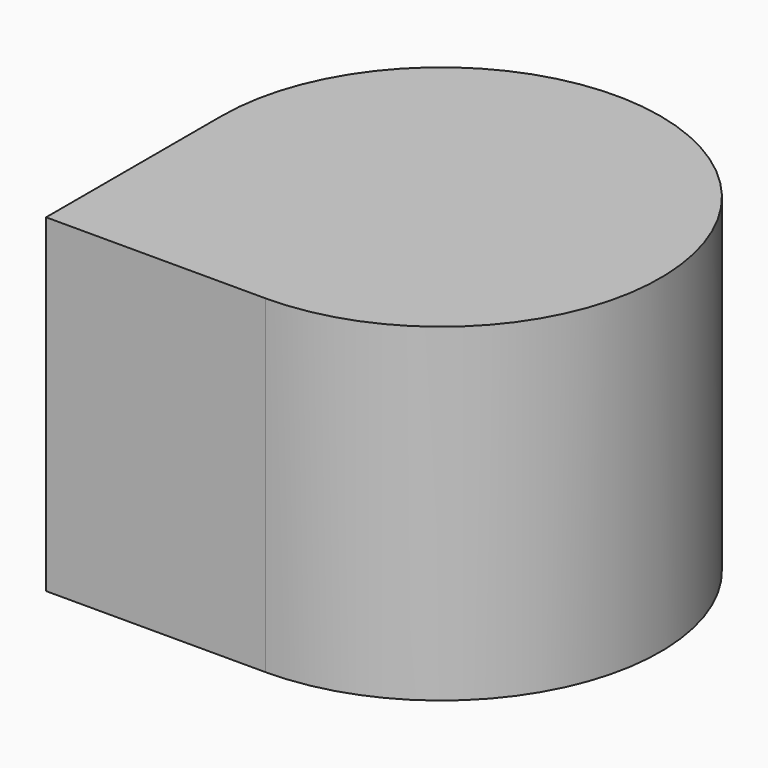
from build123d import *

# Parameters (mm, degrees)
F1_DEPTH = 150


with BuildPart() as f1:
    # F0 (on Top) → F1 (new body)
    with BuildSketch(Plane.XY):
        with BuildLine():
            ThreePointArc((0, -100), (70.710678, 70.710678), (-100, 0))
            Line((-100, 0), (-100, -100))
            Line((-100, -100), (0, -100))
        make_face()
    extrude(amount=F1_DEPTH)


solid = f1.part
